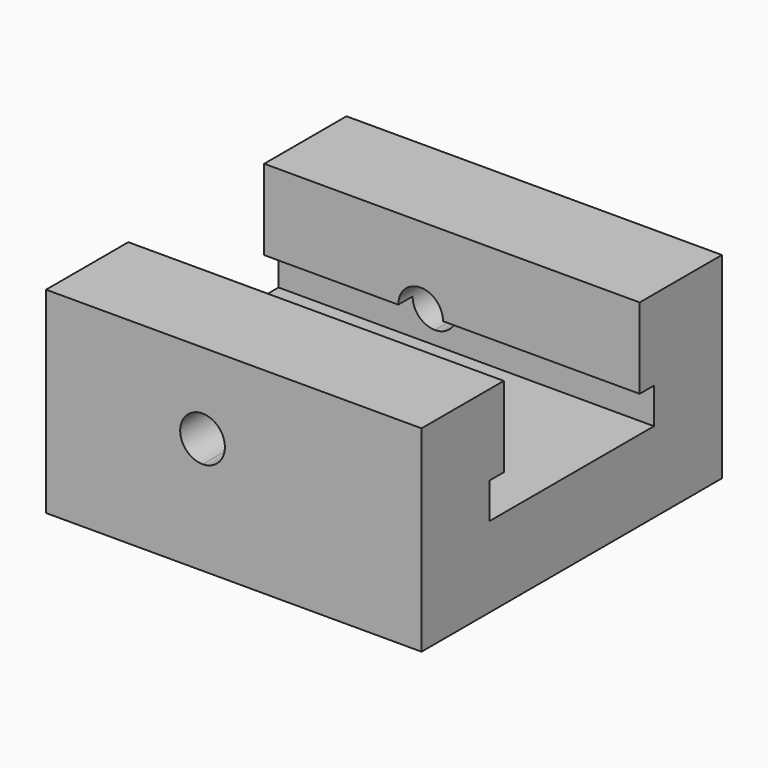
from build123d import *

# Parameters (mm, degrees)
F1_DEPTH = 42
F2_W     = 9.5
F2_H     = 9
F3_DEPTH = 42


with BuildPart() as f1:
    # F0 (on Front) → F1 (new body)
    with BuildSketch(Plane.XZ):
        with BuildLine():
            Line((-21, -13), (-3.5, -13))
            Line((-3.5, -13), (-3.5, -2.5))
            ThreePointArc((-3.5, -2.5), (-6, 0), (-3.5, 2.5))
            Line((-3.5, 2.5), (-3.5, 9))
            Line((-3.5, 9), (-21, 9))
            Line((-21, 9), (-21, -13))
        make_face()
        with BuildLine():
            Line((-3.5, -13), (21, -13))
            Line((21, -13), (21, 9))
            Line((21, 9), (-3.5, 9))
            Line((-3.5, 9), (-3.5, 2.5))
            ThreePointArc((-3.5, 2.5), (-1.732233, 1.767767), (-1, 0))
            ThreePointArc((-1, 0), (-1.732233, -1.767767), (-3.5, -2.5))
            Line((-3.5, -2.5), (-3.5, -13))
        make_face()
    extrude(amount=F1_DEPTH)

    # F2 (on face) → F3 (cut)
    with BuildSketch(Plane.YZ.offset(21)):
        with Locations((-25.75, 4.5)):
            Rectangle(F2_W, F2_H)
        with Locations((-16.25, 4.5)):
            Rectangle(F2_W, F2_H)
        Polygon((-32.5, -4), (-21, -4), (-21, 0), (-30.5, 0), (-32.5, 0), align=None)
        Polygon((-21, 0), (-21, -4), (-9.5, -4), (-9.5, 0), (-11.5, 0), align=None)
    extrude(amount=-F3_DEPTH, mode=Mode.SUBTRACT)


solid = f1.part
